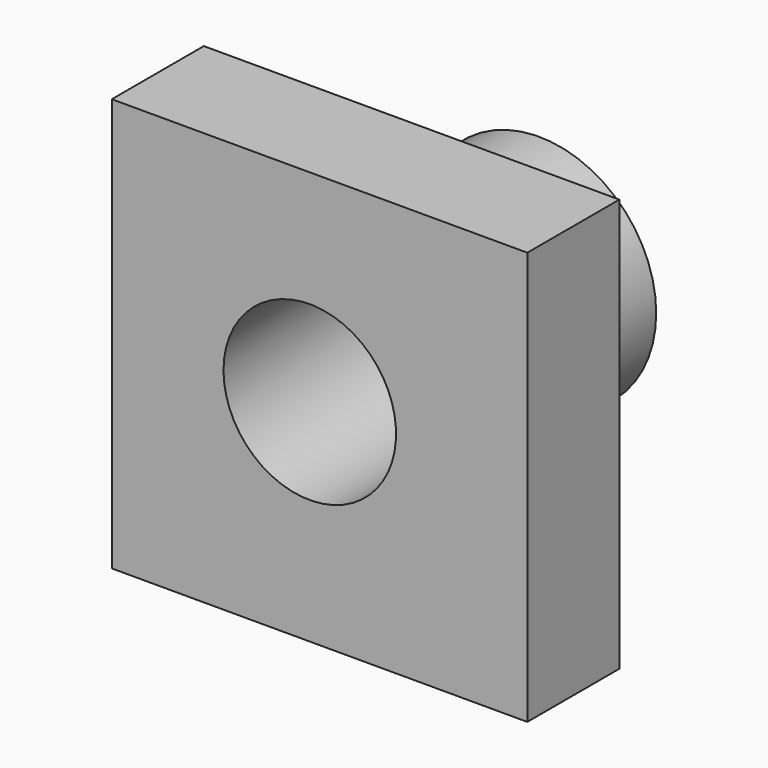
from build123d import *

# Parameters (mm, degrees)
F0_W     = 91.748398
F0_H     = 91.2087
F1_DEPTH = 25.4
F4_D     = 50.8
F2_R     = 25.893128
F6_DEPTH = 63.246
F7_D     = 38.1


with BuildPart() as f1:
    # F0 (on Front) → F1 (new body)
    with BuildSketch(Plane.XZ):
        with Locations((2.158785, -0.944471)):
            Rectangle(F0_W, F0_H)
    extrude(amount=F1_DEPTH)

    # F4 (through all)
    with Locations(Plane.XZ.offset(25.4)):
        with Locations((0, 0)):
            Hole(F4_D / 2)

    # F2 (on face) → F6 (join)
    with BuildSketch(Plane.XZ.offset(25.4)):
        Circle(F2_R)
    extrude(amount=-F6_DEPTH)

    # F7 (through all)
    with Locations(Plane.XZ.offset(25.4)):
        with Locations((0, 0)):
            Hole(F7_D / 2)


solid = f1.part
